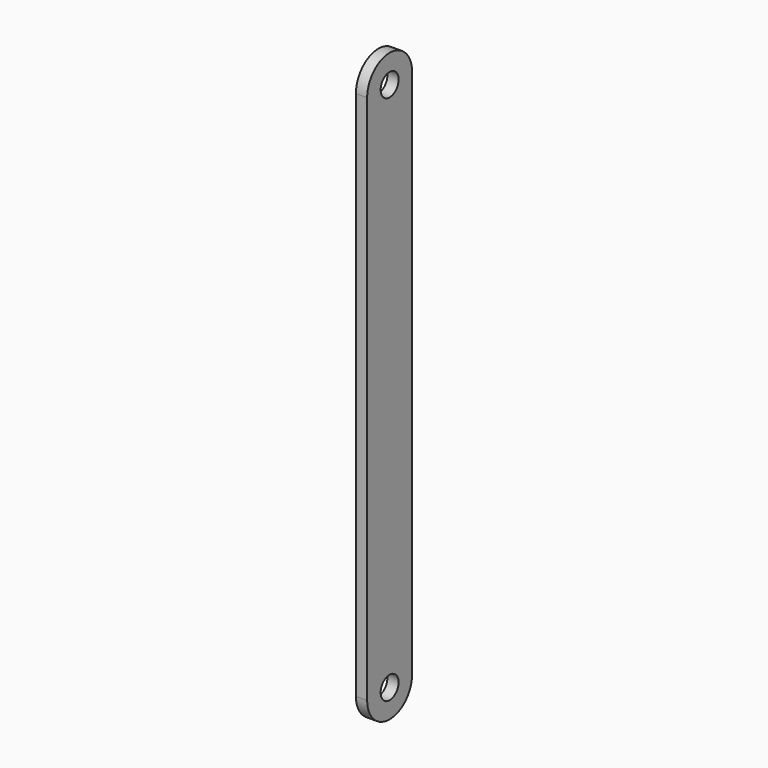
from build123d import *

# Parameters (mm, degrees)
F0_R     = 6.35
F1_DEPTH = 3.175


with BuildPart() as f1:
    # F0 (on Right) → F1 (new body, symmetric)
    with BuildSketch(Plane.YZ):
        with BuildLine():
            Line((15.875, -300), (15.875, 0))
            ThreePointArc((15.875, 0), (0, 15.875), (-15.875, 0))
            Line((-15.875, 0), (-15.875, -300))
            ThreePointArc((-15.875, -300), (0, -315.875), (15.875, -300))
        make_face()
        with Locations((0, -300)):
            Circle(F0_R, mode=Mode.SUBTRACT)
        Circle(F0_R, mode=Mode.SUBTRACT)
    extrude(amount=F1_DEPTH, both=True)


solid = f1.part
